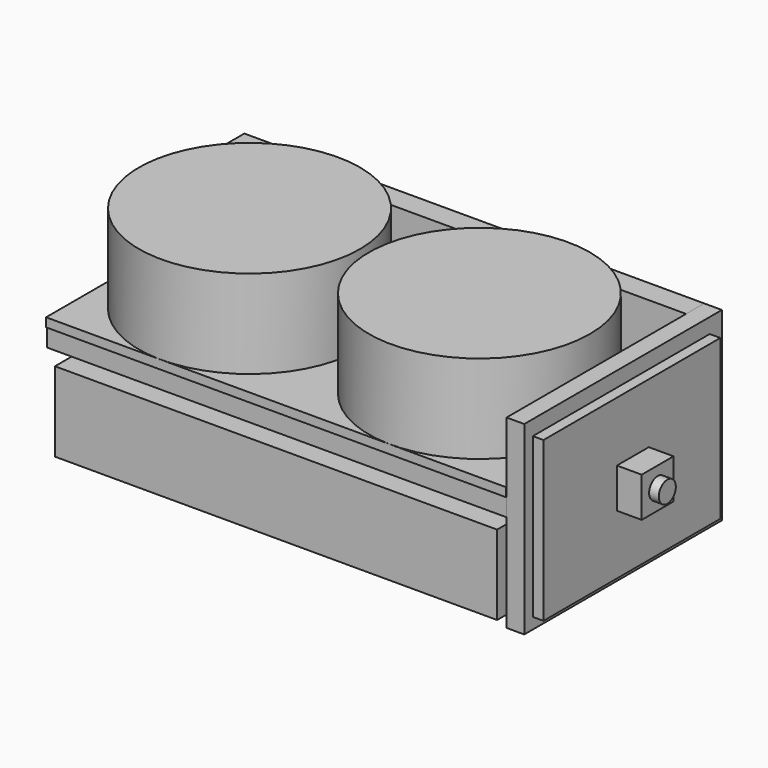
from build123d import *

# Parameters (mm, degrees)
F3_W      = 5.2
F3_H      = 5.8
F4_DEPTH  = 0.8
F0_W      = 52
F0_H      = 25
F5_DEPTH  = 1
F7_DEPTH  = 26
F8_W      = 22
F8_H      = 6.7042931914
F8_H_2    = 6.6455435008
F9_DEPTH  = 25
F10_W     = 40
F10_H     = 20
F11_DEPTH = 1.5
F12_W     = 50
F12_H     = 25
F13_DEPTH = 9
F14_W     = 27.9386714101
F14_H     = 20.9468784742
F14_W_2   = 18.992417492
F14_H_2   = 3.7935671862
F15_DEPTH = 2
F16_W     = 25
F16_H     = 18
F17_DEPTH = 1.2
F18_W     = 4.5
F18_H     = 4.5
F19_DEPTH = 2.8
F20_R     = 1.2
F21_DEPTH = 1.1


with BuildPart() as f2:
    # F1 (on Front) → F2 (revolve)
    with BuildSketch(Plane.XZ):
        Polygon((25.5, 10), (13, 10), (13, 7.8151083898), (15.5678469842, 7.8151083898), (15.6255090984, 6.1638814834), (17.7215017753, 7.8930750926), (17.8035117869, 5.5446156279), (20.3536359777, 7.8851400853), (20.4675190247, 4.623956306), (23.72811568, 7.7857482509), (24, 0), (25.5, 0), align=None)
    revolve(axis=Axis((13, 0, 5), (0, 0, 1)))


with BuildPart() as f4:
    # F3 (on Top) → F4 (new body)
    with BuildSketch(Plane.XY):
        with Locations((13, 0)):
            Rectangle(F3_W, F3_H)
    extrude(amount=F4_DEPTH)


with BuildPart() as f5:
    # F0 (on Top) → F5 (new body)
    with BuildSketch(Plane.XY):
        Rectangle(F0_W, F0_H)
    extrude(amount=-F5_DEPTH)


with BuildPart() as f7:
    # F6 (on Right) → F7 (new body, symmetric)
    with BuildSketch(Plane.YZ):
        with BuildLine():
            Line((12.9556003958, -1.05), (-12.3906897409, -1.05))
            Line((-12.3906897409, -1.05), (-12.3906897409, -3.05))
            Line((-12.3906897409, -3.05), (12.9556003958, -3.05))
            Line((12.9556003958, -3.05), (12.9556003958, -14.2463855445))
            Line((12.9556003958, -14.2463855445), (15.5245568603, -14.2463855445))
            Line((15.5245568603, -14.2463855445), (15.5245568603, -8.0912960693))
            add(Edge.make_bspline(
                [(15.5245568603, -8.0912960693), (15.1307285273, -7.8043799215), (14.9731601719, -5.3427263621), (15.5245568603, -4.8075746745)],
                knots=[0.8768646507, 0.8768646507, 0.8768646507, 0.8768646507, 1, 1, 1, 1], degree=3))
            Line((15.5245568603, -4.8075746745), (15.5245568603, 6.8981046788))
            Line((15.5245568603, 6.8981046788), (12.9556003958, 6.8981046788))
            Line((12.9556003958, 6.8981046788), (12.9556003958, -1.05))
        make_face()
        with BuildLine():
            add(Edge.make_bspline(
                [(15.5245568603, -4.8075746745), (15.9730262026, -4.3723179339), (17.6685397753, -5.9231068517), (19.1672769803, -4.8185930121), (19.4614935253, -3.2615678733), (20.8537983665, -3.9503486179), (21.8977706121, -4.8747354361), (21.2777130555, -6.6648065681), (20.0358399809, -7.9662803096), (18.4033892681, -8.2362727941), (17.1568375842, -8.0523639581), (16.2371282847, -7.4392579367), (15.7169775323, -8.2314804931), (15.5245568603, -8.0912960693)],
                knots=[0, 0, 0, 0, 0.1001500921, 0.1850830243, 0.2602045323, 0.3337422955, 0.4108687874, 0.4984368885, 0.5890576109, 0.6743702611, 0.7510966508, 0.8167019233, 0.8768646507, 0.8768646507, 0.8768646507, 0.8768646507], degree=3))
            add(Edge.make_bspline(
                [(15.5245568603, -8.0912960693), (15.1307285273, -7.8043799215), (14.9731601719, -5.3427263621), (15.5245568603, -4.8075746745)],
                knots=[0.8768646507, 0.8768646507, 0.8768646507, 0.8768646507, 1, 1, 1, 1], degree=3))
        make_face()
    extrude(amount=F7_DEPTH, both=True)

    # F8 (on face) → F9 (cut)
    with BuildSketch(Plane.XY.offset(6.8981046788)):
        with Locations((15, 18.876703456)):
            Rectangle(F8_W, F8_H)
        with Locations((-15, 18.8473286107)):
            Rectangle(F8_W, F8_H_2)
    extrude(amount=-F9_DEPTH, mode=Mode.SUBTRACT)


with BuildPart() as f11:
    # F10 (on face) → F11 (new body)
    with BuildSketch(Plane(origin=(0, 0, -3.05), x_dir=(1, 0, 0), z_dir=(0, 0, -1))):
        Rectangle(F10_W, F10_H)
    extrude(amount=F11_DEPTH)


with BuildPart() as f13:
    # F12 (on face) → F13 (new body)
    with BuildSketch(Plane(origin=(0, 0, -4.55), x_dir=(1, 0, 0), z_dir=(0, 0, -1))):
        Rectangle(F12_W, F12_H)
    extrude(amount=F13_DEPTH)


with BuildPart() as f15:
    # F14 (on face) → F15 (new body)
    with BuildSketch(Plane.YZ.offset(26)):
        with Locations((1.5552211553, -3.5753345583)):
            Rectangle(F14_W, F14_H)
        with Locations((0.4946445115, 1.8967835931)):
            Rectangle(F14_W_2, F14_H_2, mode=Mode.SUBTRACT)
    extrude(amount=F15_DEPTH)


with BuildPart() as f17:
    # F16 (on face) → F17 (new body)
    with BuildSketch(Plane.YZ.offset(28)):
        with Locations((1.3015734032, -3.7978399396)):
            Rectangle(F16_W, F16_H)
    extrude(amount=F17_DEPTH)

    # F18 (on face) → F19 (join)
    with BuildSketch(Plane.YZ.offset(29.2)):
        with Locations((1.433978905, -3.8067214191)):
            Rectangle(F18_W, F18_H)
    extrude(amount=F19_DEPTH)

    # F20 (on face) → F21 (join)
    with BuildSketch(Plane.YZ.offset(32)):
        with Locations((1.433978905, -3.8067214191)):
            Circle(F20_R)
    extrude(amount=F21_DEPTH)


with BuildPart() as f22_1:
    # F22: copy of F2
    add(f2.part.moved(Location((-26, 0, 0))))


with BuildPart() as f23_1:
    # F23: copy of F4
    add(f4.part.moved(Location((-26, 0, 0))))


solid = Compound([f2.part, f4.part, f5.part, f7.part, f11.part, f13.part, f15.part, f17.part, f22_1.part, f23_1.part])
